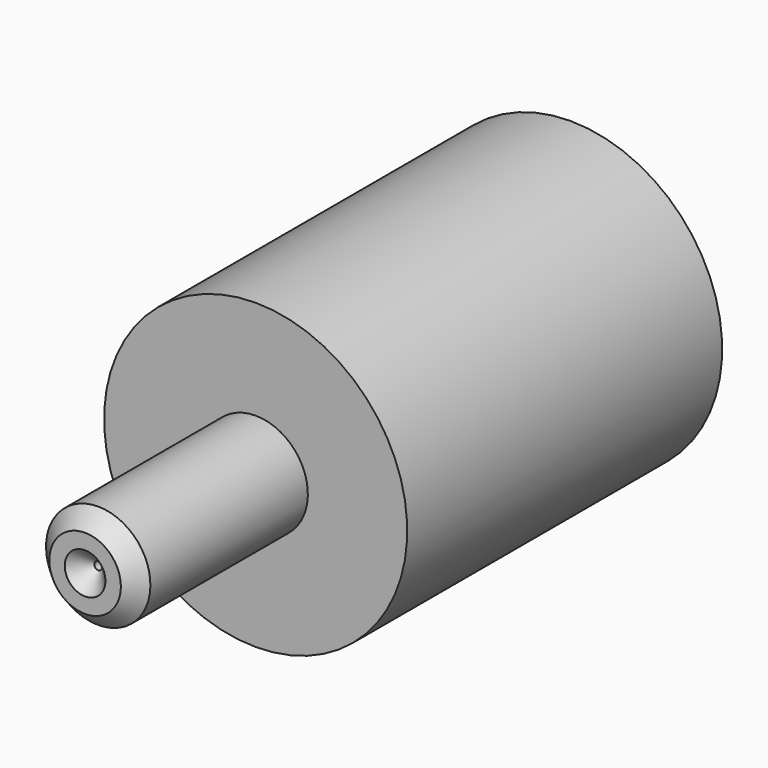
from build123d import *

# Parameters (mm, degrees)
F2_SIZE = 0.5
F3_SIZE = 0.25


with BuildPart() as f1:
    # F0 (on Right) → F1 (revolve)
    with BuildSketch(Plane.YZ):
        Polygon((-15.9592820017, -2.8064947682), (-10.4592820017, -2.8064947682), (-10.4592820017, -0.8064947682), (-22.4592820017, -0.8064947682), (-22.4592820017, -3.8364947682), (-28.9592820017, -3.8364947682), (-28.9592820017, -5.3064947682), (-17.4592820017, -5.3064947682), (-17.4592820017, -4.3064947682), (-15.9592820017, -4.3064947682), align=None)
    revolve(axis=Axis((0, -19.7092820017, -5.4264947682), (0, 1, 0)))

    # F2
    f2_edges = [f1.edges().sort_by_distance(p)[0] for p in [
        (0, -28.959282, -7.016495),
        (0, -28.959282, -5.546495),
    ]]
    chamfer(f2_edges, length=F2_SIZE)

    # F3
    f3_edges = [f1.edges().sort_by_distance(p)[0] for p in [
        (0, -15.959282, -6.546495),
        (0, -10.459282, -8.046495),
        (0, -17.459282, -5.546495),
    ]]
    chamfer(f3_edges, length=F3_SIZE)


solid = f1.part
